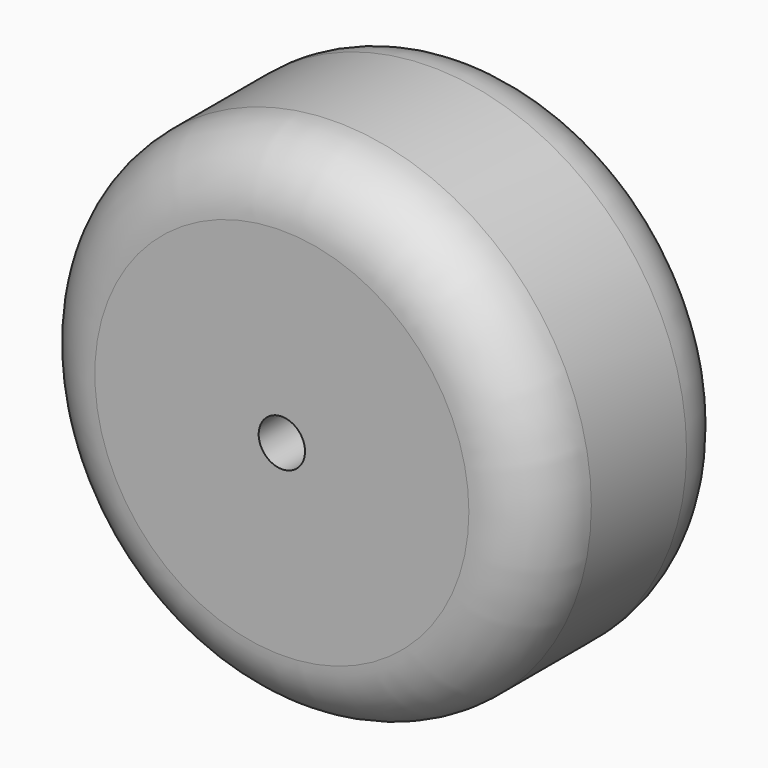
from build123d import *

# Parameters (mm, degrees)
F0_R     = 19.05
F1_DEPTH = 9.525
F2_R     = 5.08
F3_R     = 1.731017
F4_DEPTH = 19.05


with BuildPart() as f1:
    # F0 (on Front) → F1 (new body, symmetric)
    with BuildSketch(Plane.XZ):
        Circle(F0_R)
    extrude(amount=F1_DEPTH, both=True)

    # F2
    f2_edges = [f1.edges().sort_by_distance(p)[0] for p in [
        (-19.05, -9.525, 0),
        (-19.05, 9.525, 0),
    ]]
    fillet(f2_edges, radius=F2_R)

    # F3 (on face) → F4 (cut)
    with BuildSketch(Plane.XZ.offset(9.525)):
        Circle(F3_R)
    extrude(amount=-F4_DEPTH, mode=Mode.SUBTRACT)


solid = f1.part
